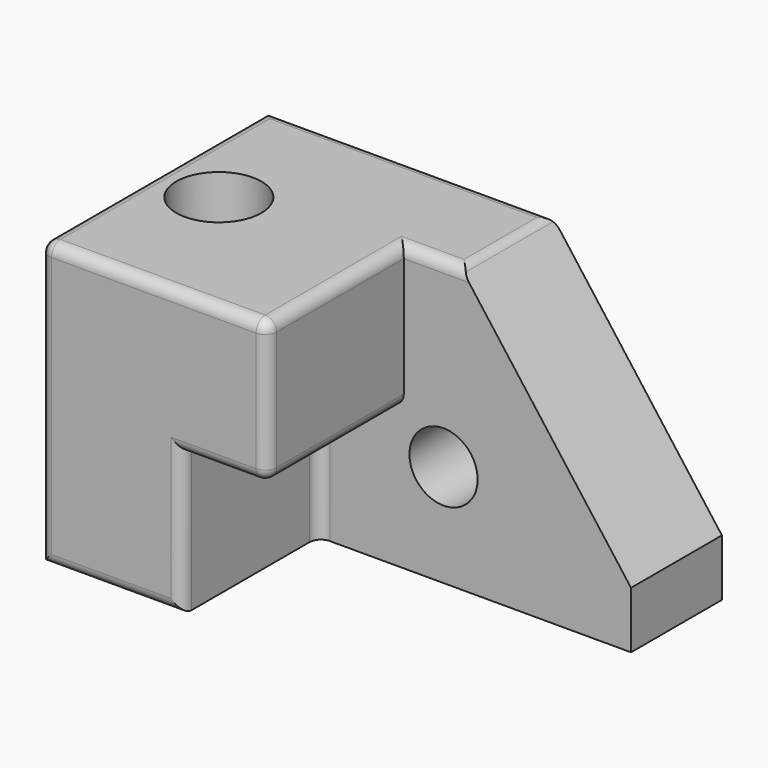
from build123d import *

# Parameters (mm, degrees)
F0_W     = 203.2
F0_H     = 127
F1_DEPTH = 127
F3_DEPTH = 76.2
F4_SIZE2 = 101.6
F4_SIZE  = 76.2
F5_R     = 5.08
F6_R     = 15.24
F7_DEPTH = 50.8
F8_R     = 19.05
F9_DEPTH = 127


with BuildPart() as f1:
    # F0 (on Front) → F1 (new body)
    with BuildSketch(Plane.XZ):
        with Locations((-8.7118318382, 17.0372370631)):
            Rectangle(F0_W, F0_H)
    extrude(amount=F1_DEPTH)

    # F2 (on face) → F3 (cut)
    with BuildSketch(Plane.XZ.offset(127)):
        Polygon((92.8881681618, 80.5372370631), (-8.7118318382, 80.5372370631), (-8.7118318382, 17.0372370631), (-46.8118318382, 17.0372370631), (-46.8118318382, -46.4627629369), (92.8881681618, -46.4627629369), align=None)
    extrude(amount=-F3_DEPTH, mode=Mode.SUBTRACT)

    # F4
    f4_edges = [f1.edges().sort_by_distance(p)[0] for p in [
        (92.888168, -25.4, 80.537237),
    ]]
    f4_side = f1.faces().sort_by_distance((-30.48326, -52.614286, 80.537237))[0]
    chamfer(f4_edges, length=F4_SIZE, length2=F4_SIZE2, reference=f4_side)

    # F5
    f5_edges = [f1.edges().sort_by_distance(p)[0] for p in [
        (-8.711832, -88.9, 80.537237),
        (3.988168, -50.8, 80.537237),
        (-8.711832, -88.9, 17.037237),
        (-8.711832, -127, 48.787237),
        (-27.761832, -127, 17.037237),
        (-46.811832, -127, -14.712763),
        (-78.561832, -127, -46.462763),
        (-110.311832, -127, 17.037237),
        (-59.511832, -127, 80.537237),
        (-46.811832, -50.8, -14.712763),
        (16.688168, -25.4, 80.537237),
        (-46.811832, 0, 80.537237),
        (-110.311832, -63.5, 80.537237),
    ]]
    fillet(f5_edges, radius=F5_R)

    # F6 (on face) → F7 (cut, through all)
    with BuildSketch(Plane.XZ.offset(50.8)):
        with Locations((9.0681681618, -0.7427629369)):
            Circle(F6_R)
    extrude(amount=-F7_DEPTH, mode=Mode.SUBTRACT)

    # F8 (on face) → F9 (cut, through all)
    with BuildSketch(Plane.XY.offset(80.5372370631)):
        with Locations((-82.0436404108, -62.4904338136)):
            Circle(F8_R)
    extrude(amount=-F9_DEPTH, mode=Mode.SUBTRACT)


solid = f1.part
